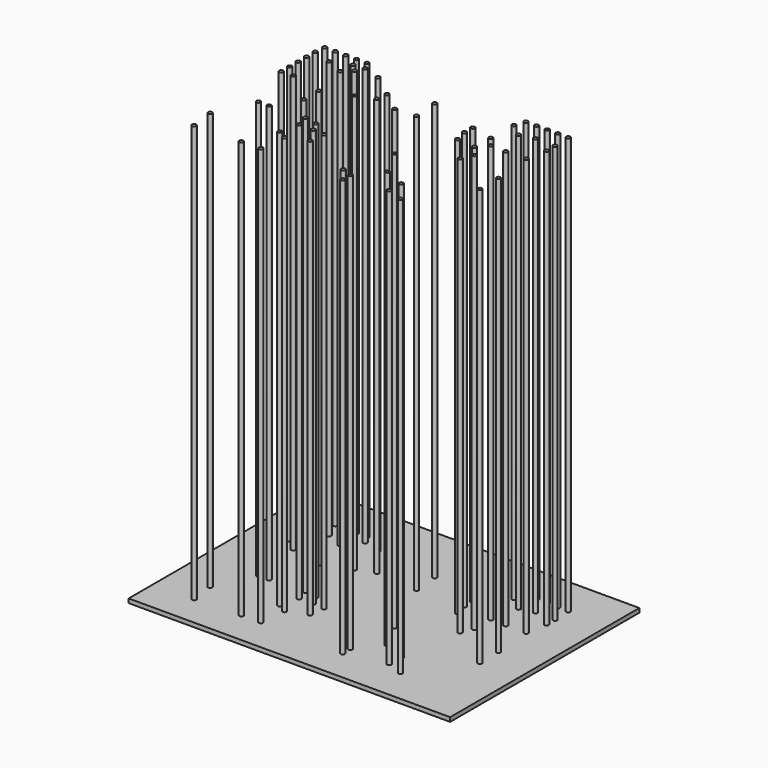
from build123d import *

# Parameters (mm, degrees)
F1_W     = 77.066931
F1_H     = 56.692917
F2_DEPTH = 1
F0_R     = 0.5
F3_DEPTH = 100
F5_ANGLE = 180


with BuildPart() as f2:
    # F1 (on Top) → F2 (new body)
    with BuildSketch(Plane.XY):
        with Locations((-0.177166, -0.088582)):
            Rectangle(F1_W, F1_H)
    extrude(amount=F2_DEPTH)

    # F0 (on Top) → F3 (join)
    with BuildSketch(Plane.XY):
        with Locations((-18.665, -0.385)):
            Circle(F0_R)
        with Locations((-17.975, 9.7)):
            Circle(F0_R)
        with Locations((-19.885, 2.35)):
            Circle(F0_R)
        with Locations((-23.55, 7.2)):
            Circle(F0_R)
        with Locations((-19.875, 7.325)):
            Circle(F0_R)
        with Locations((-18.985, 18.95)):
            Circle(F0_R)
        with Locations((-26.605, 18.95)):
            Circle(F0_R)
        with Locations((-21.525, 18.95)):
            Circle(F0_R)
        with Locations((-29.145, 18.95)):
            Circle(F0_R)
        with Locations((-24.065, 18.95)):
            Circle(F0_R)
        with Locations((-18.1, 16.475)):
            Circle(F0_R)
        with Locations((-4.325, -17.525)):
            Circle(F0_R)
        with Locations((-6.825, -18.475)):
            Circle(F0_R)
        with Locations((-24.6, 14.775)):
            Circle(F0_R)
        with Locations((29.525, 16.41)):
            Circle(F0_R)
        with Locations((29.525, 13.87)):
            Circle(F0_R)
        with Locations((-21.2, 13.95)):
            Circle(F0_R)
        with Locations((29.525, 6.25)):
            Circle(F0_R)
        with Locations((-29.225, -2.075)):
            Circle(F0_R)
        with Locations((-16.325, -18.725)):
            Circle(F0_R)
        with Locations((3.45, 7.625)):
            Circle(F0_R)
        with Locations((-6.825, -20.75)):
            Circle(F0_R)
        with Locations((-29.275, -7.75)):
            Circle(F0_R)
        with Locations((-11.35, -13.05)):
            Circle(F0_R)
        with Locations((18, 17)):
            Circle(F0_R)
        with Locations((25.05, 15)):
            Circle(F0_R)
        with Locations((20.725, 16.75)):
            Circle(F0_R)
        with Locations((19, 15)):
            Circle(F0_R)
        with Locations((13.475, -8.45)):
            Circle(F0_R)
        with Locations((10.101, -8.45)):
            Circle(F0_R)
        with Locations((11.3, -6.175)):
            Circle(F0_R)
        with Locations((7.775, -12.275)):
            Circle(F0_R)
        with Locations((8.325, 11.425)):
            Circle(F0_R)
        with Locations((8.575, 8.725)):
            Circle(F0_R)
        with Locations((13.9, 15.7)):
            Circle(F0_R)
        with Locations((12.725, 7.175)):
            Circle(F0_R)
        with Locations((14.225, -5.625)):
            Circle(F0_R)
        with Locations((21.655, 18.95)):
            Circle(F0_R)
        with Locations((26.735, 18.95)):
            Circle(F0_R)
        with Locations((19.115, 18.95)):
            Circle(F0_R)
        with Locations((24.195, 18.95)):
            Circle(F0_R)
        with Locations((29.275, 18.95)):
            Circle(F0_R)
        with Locations((20.975, 13.197)):
            Circle(F0_R)
        with Locations((-29.34, 12.18)):
            Circle(F0_R)
        with Locations((29.525, 11.33)):
            Circle(F0_R)
        with Locations((-29.34, 14.72)):
            Circle(F0_R)
        with Locations((29.525, 8.79)):
            Circle(F0_R)
        with Locations((-1.5, 8)):
            Circle(F0_R)
        with Locations((-1, 14.1)):
            Circle(F0_R)
        with Locations((-7.825, -6.5)):
            Circle(F0_R)
        with Locations((-28.44, 7.2)):
            Circle(F0_R)
        with Locations((26.75, 6.35)):
            Circle(F0_R)
        with Locations((19.15, 4.55)):
            Circle(F0_R)
        with Locations((12.375, -14.2)):
            Circle(F0_R)
        with Locations((29.425, -15.2)):
            Circle(F0_R)
        with Locations((28.625, -20.975)):
            Circle(F0_R)
        with Locations((17.625, -20.575)):
            Circle(F0_R)
        with Locations((13.025, -20.474)):
            Circle(F0_R)
        with Locations((-13.375, 5.425)):
            Circle(F0_R)
        with Locations((-20.2, -20.175)):
            Circle(F0_R)
        with Locations((25.2, -5.975)):
            Circle(F0_R)
        with Locations((22.66, -5.975)):
            Circle(F0_R)
        with Locations((19.15, 0.025)):
            Circle(F0_R)
        with Locations((14.5, -12.95)):
            Circle(F0_R)
        with Locations((7.325, -8.675)):
            Circle(F0_R)
        with Locations((-12.7, 10.85)):
            Circle(F0_R)
        with Locations((-12.7, 8.4)):
            Circle(F0_R)
        with Locations((-17.825, 4.975)):
            Circle(F0_R)
        with Locations((-16.4, -15.175)):
            Circle(F0_R)
    extrude(amount=-F3_DEPTH)


with BuildPart() as f2_1:
    # F5: moved
    add(f2.part.rotate(Axis((0, 0.08858, 0), (0, -1, 0)), F5_ANGLE))


solid = f2_1.part
